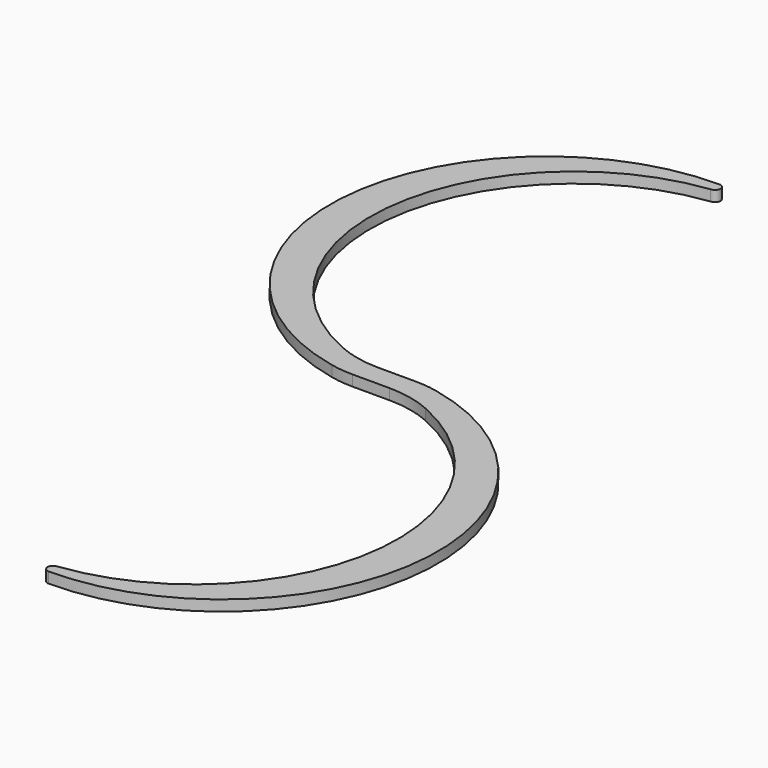
from build123d import *

# Parameters (mm, degrees)
F1_DEPTH = 10


with BuildPart() as f1:
    # F0 (on Top) → F1 (new body)
    with BuildSketch(Plane.XY):
        with BuildLine():
            ThreePointArc((0, 380), (5, 385), (0, 390))
            ThreePointArc((0, 390), (-200.003129, 210.088535), (-42.190413, -7.775031))
            ThreePointArc((-42.190413, -7.775031), (-31.760642, -9.442202), (-21.213203, -10))
            Line((-21.213203, -10), (0, -10))
            Line((0, -10), (12.941731, -10))
            ThreePointArc((12.941731, -10), (33.571927, -12.151162), (53.314545, -18.5121))
            ThreePointArc((53.314545, -18.5121), (164.293465, -219.555515), (0, -380))
            ThreePointArc((0, -380), (-5, -385), (0, -390))
            ThreePointArc((0, -390), (200.003129, -210.088535), (42.190413, 7.775031))
            ThreePointArc((42.190413, 7.775031), (31.760642, 9.442202), (21.213203, 10))
            Line((21.213203, 10), (0, 10))
            Line((0, 10), (-12.941731, 10))
            ThreePointArc((-12.941731, 10), (-33.571927, 12.151162), (-53.314545, 18.5121))
            ThreePointArc((-53.314545, 18.5121), (-164.293465, 219.555515), (0, 380))
        make_face()
    extrude(amount=F1_DEPTH)


solid = f1.part
